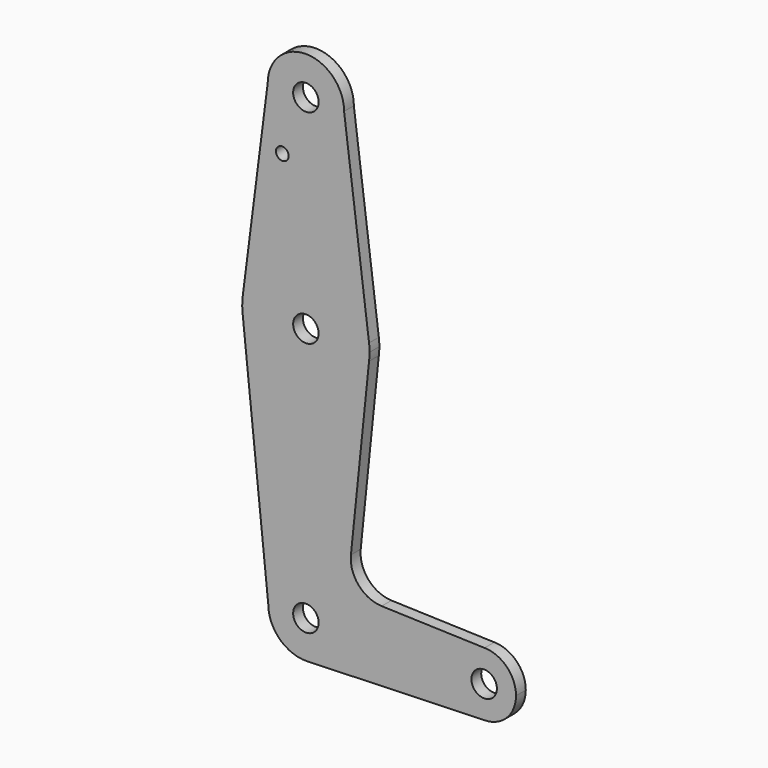
from build123d import *

# Parameters (mm, degrees)
F0_R     = 3.175
F0_R_2   = 1.5875
F1_DEPTH = 3.048


with BuildPart() as f1:
    # F0 (on Front) → F1 (new body)
    with BuildSketch(Plane.XZ):
        with BuildLine():
            ThreePointArc((0.3056302421, -9.3762449421), (6.7407182507, -6.5245763482), (9.3812248166, 0))
            ThreePointArc((9.3812248166, 0), (0, 9.3812248166), (-9.3812248166, 0))
            ThreePointArc((-9.3812248166, 0), (-6.5245763482, -6.7407182507), (0.3056302421, -9.3762449421))
        make_face()
        Circle(F0_R, mode=Mode.SUBTRACT)
        with BuildLine():
            ThreePointArc((-9.3812248166, 0), (0, 9.3812248166), (9.3812248166, 0))
            Line((9.3812248166, 0), (36.5125, 0))
            ThreePointArc((36.5125, 0), (38.8715206255, 5.646633875), (44.5463832423, 7.9369147986))
            Line((44.5463832423, 7.9369147986), (18.8814974695, 8.7718970645))
            ThreePointArc((18.8814974695, 8.7718970645), (13.1522879691, 11.4878994269), (11.2314322827, 17.5303181283))
            Line((11.2314322827, 17.5303181283), (15.7474569047, 61.4917106696))
            ThreePointArc((15.7474569047, 61.4917106696), (-0.0498496426, 47.6250782675), (-15.7597588877, 61.5906480675))
            Line((-15.7597588877, 61.5906480675), (-9.3812248166, 0))
        make_face()
        with BuildLine():
            Line((36.5125, 0), (9.3812248166, 0))
            ThreePointArc((9.3812248166, 0), (6.7407182507, -6.5245763482), (0.3056302421, -9.3762449421))
            Line((0.3056302421, -9.3762449421), (44.4440819215, -7.9374977938))
            ThreePointArc((44.4440819215, -7.9374977938), (38.8352479575, -5.6105673288), (36.5125, 0))
        make_face()
        with BuildLine():
            ThreePointArc((44.5463832423, 7.9369147986), (38.8715206255, 5.646633875), (36.5125, 0))
            ThreePointArc((36.5125, 0), (38.8352479575, -5.6105673288), (44.4440819215, -7.9374977938))
            ThreePointArc((44.4440819215, -7.9374977938), (50.0605673288, -5.6147520425), (52.3875, 0))
            ThreePointArc((52.3875, 0), (50.096633875, 5.5784793745), (44.5463832423, 7.9369147986))
        make_face()
        with BuildLine():
            ThreePointArc((47.625, 0), (44.45, -3.175), (41.275, 0))
            ThreePointArc((41.275, 0), (44.45, 3.175), (47.625, 0))
        make_face(mode=Mode.SUBTRACT)
        with BuildLine():
            Line((-15.8165689236, 62.1392015264), (-15.7597588877, 61.5906480675))
            ThreePointArc((-15.7597588877, 61.5906480675), (-0.0498496426, 47.6250782675), (15.7474569047, 61.4917106696))
            ThreePointArc((15.7474569047, 61.4917106696), (15.8430821396, 62.4938323604), (15.875, 63.5))
            ThreePointArc((15.875, 63.5), (15.8430821396, 64.5061676396), (15.7474569047, 65.5082893304))
            ThreePointArc((15.7474569047, 65.5082893304), (0, 79.375), (-15.7474569047, 65.5082893304))
            ThreePointArc((-15.7474569047, 65.5082893304), (-15.8716609017, 63.8255844287), (-15.8165689236, 62.1392015264))
        make_face()
        with Locations((0, 63.5)):
            Circle(F0_R, mode=Mode.SUBTRACT)
        with BuildLine():
            ThreePointArc((-15.8165689236, 62.1392015264), (-15.7905461348, 61.8646780853), (-15.7597588877, 61.5906480675))
            Line((-15.7597588877, 61.5906480675), (-15.8165689236, 62.1392015264))
        make_face()
        with BuildLine():
            Line((-9.525, 114.3), (-15.7474569047, 65.5082893304))
            ThreePointArc((-15.7474569047, 65.5082893304), (0, 79.375), (15.7474569047, 65.5082893304))
            Line((15.7474569047, 65.5082893304), (9.525, 114.3))
            ThreePointArc((9.525, 114.3), (0, 104.775), (-9.525, 114.3))
        make_face()
        with Locations((-5.8786552399, 100.0252)):
            Circle(F0_R_2, mode=Mode.SUBTRACT)
        with BuildLine():
            ThreePointArc((9.525, 114.3), (0, 123.825), (-9.525, 114.3))
            ThreePointArc((-9.525, 114.3), (0, 104.775), (9.525, 114.3))
        make_face()
        with Locations((0, 114.3)):
            Circle(F0_R, mode=Mode.SUBTRACT)
    extrude(amount=F1_DEPTH)


solid = f1.part
